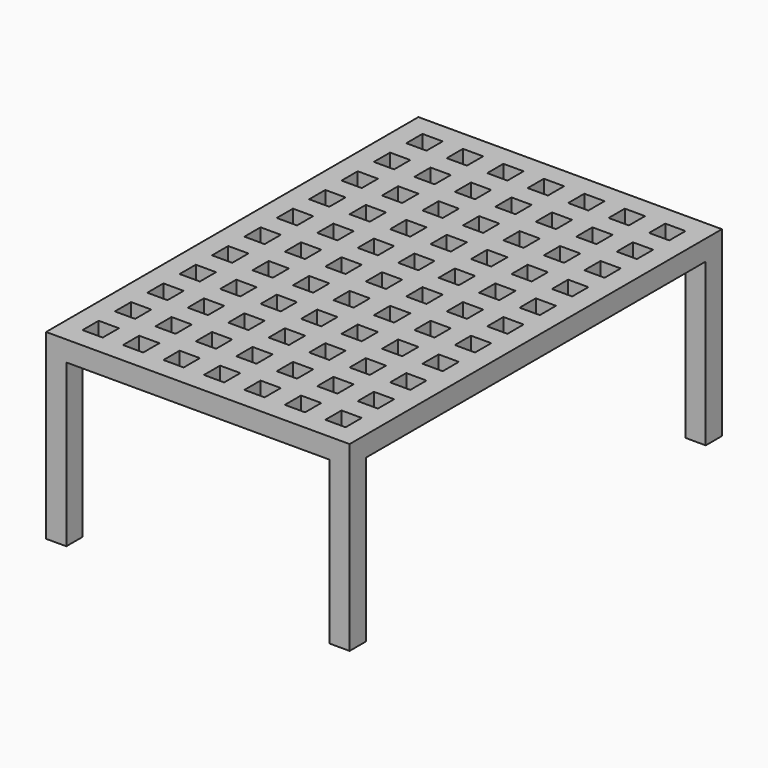
from build123d import *

# Parameters (mm, degrees)
F0_W     = 95.25
F0_H     = 146.05
F1_DEPTH = 6.35
F2_W     = 6.35
F2_H     = 6.35
F3_DEPTH = 25.4
F4_W     = 6.35
F4_H     = 6.35
F5_DEPTH = 57.15


with BuildPart() as f1:
    # F0 (on Top) → F1 (new body)
    with BuildSketch(Plane.XY):
        with Locations((-120.95061, -25.485893)):
            Rectangle(F0_W, F0_H)
    extrude(amount=F1_DEPTH)

    # F2 (on face) → F3 (cut)
    with BuildSketch(Plane.XY.offset(6.35)):
        with Locations((-159.05061, 38.014107)):
            Rectangle(F2_W, F2_H)
        with Locations((-146.35061, 38.014107)):
            Rectangle(F2_W, F2_H)
        with Locations((-133.65061, 38.014107)):
            Rectangle(F2_W, F2_H)
        with Locations((-120.95061, 38.014107)):
            Rectangle(F2_W, F2_H)
        with Locations((-108.25061, 38.014107)):
            Rectangle(F2_W, F2_H)
        with Locations((-95.55061, 38.014107)):
            Rectangle(F2_W, F2_H)
        with Locations((-82.85061, 38.014107)):
            Rectangle(F2_W, F2_H)
        with Locations((-120.95061, 25.314107)):
            Rectangle(F2_W, F2_H)
        with Locations((-159.05061, 25.314107)):
            Rectangle(F2_W, F2_H)
        with Locations((-146.35061, 25.314107)):
            Rectangle(F2_W, F2_H)
        with Locations((-133.65061, 25.314107)):
            Rectangle(F2_W, F2_H)
        with Locations((-108.25061, 25.314107)):
            Rectangle(F2_W, F2_H)
        with Locations((-95.55061, 25.314107)):
            Rectangle(F2_W, F2_H)
        with Locations((-82.85061, 25.314107)):
            Rectangle(F2_W, F2_H)
        with Locations((-82.85061, 12.614107)):
            Rectangle(F2_W, F2_H)
        with Locations((-95.55061, 12.614107)):
            Rectangle(F2_W, F2_H)
        with Locations((-108.25061, 12.614107)):
            Rectangle(F2_W, F2_H)
        with Locations((-120.95061, 12.614107)):
            Rectangle(F2_W, F2_H)
        with Locations((-133.65061, 12.614107)):
            Rectangle(F2_W, F2_H)
        with Locations((-146.35061, 12.614107)):
            Rectangle(F2_W, F2_H)
        with Locations((-159.05061, 12.614107)):
            Rectangle(F2_W, F2_H)
        with Locations((-159.05061, -0.085893)):
            Rectangle(F2_W, F2_H)
        with Locations((-146.35061, -0.085893)):
            Rectangle(F2_W, F2_H)
        with Locations((-133.65061, -0.085893)):
            Rectangle(F2_W, F2_H)
        with Locations((-120.95061, -0.085893)):
            Rectangle(F2_W, F2_H)
        with Locations((-108.25061, -0.085893)):
            Rectangle(F2_W, F2_H)
        with Locations((-95.55061, -0.085893)):
            Rectangle(F2_W, F2_H)
        with Locations((-82.85061, -0.085893)):
            Rectangle(F2_W, F2_H)
        with Locations((-82.85061, -12.785893)):
            Rectangle(F2_W, F2_H)
        with Locations((-95.55061, -12.785893)):
            Rectangle(F2_W, F2_H)
        with Locations((-108.25061, -12.785893)):
            Rectangle(F2_W, F2_H)
        with Locations((-120.95061, -12.785893)):
            Rectangle(F2_W, F2_H)
        with Locations((-133.65061, -12.785893)):
            Rectangle(F2_W, F2_H)
        with Locations((-146.35061, -12.785893)):
            Rectangle(F2_W, F2_H)
        with Locations((-159.05061, -12.785893)):
            Rectangle(F2_W, F2_H)
        with Locations((-159.05061, -25.485893)):
            Rectangle(F2_W, F2_H)
        with Locations((-146.35061, -25.485893)):
            Rectangle(F2_W, F2_H)
        with Locations((-146.35061, -38.185893)):
            Rectangle(F2_W, F2_H)
        with Locations((-159.05061, -38.185893)):
            Rectangle(F2_W, F2_H)
        with Locations((-159.05061, -50.885893)):
            Rectangle(F2_W, F2_H)
        with Locations((-133.65061, -50.885893)):
            Rectangle(F2_W, F2_H)
        with Locations((-133.65061, -38.185893)):
            Rectangle(F2_W, F2_H)
        with Locations((-133.65061, -25.485893)):
            Rectangle(F2_W, F2_H)
        with Locations((-120.95061, -25.485893)):
            Rectangle(F2_W, F2_H)
        with Locations((-120.95061, -38.185893)):
            Rectangle(F2_W, F2_H)
        with Locations((-120.95061, -50.885893)):
            Rectangle(F2_W, F2_H)
        with Locations((-108.25061, -50.885893)):
            Rectangle(F2_W, F2_H)
        with Locations((-95.55061, -50.885893)):
            Rectangle(F2_W, F2_H)
        with Locations((-95.55061, -38.185893)):
            Rectangle(F2_W, F2_H)
        with Locations((-82.85061, -38.185893)):
            Rectangle(F2_W, F2_H)
        with Locations((-82.85061, -25.485893)):
            Rectangle(F2_W, F2_H)
        with Locations((-95.55061, -25.485893)):
            Rectangle(F2_W, F2_H)
        with Locations((-108.25061, -25.485893)):
            Rectangle(F2_W, F2_H)
        with Locations((-108.25061, -38.185893)):
            Rectangle(F2_W, F2_H)
        with Locations((-82.85061, -50.885893)):
            Rectangle(F2_W, F2_H)
        with Locations((-82.85061, -63.585893)):
            Rectangle(F2_W, F2_H)
        with Locations((-95.55061, -63.585893)):
            Rectangle(F2_W, F2_H)
        with Locations((-108.25061, -63.585893)):
            Rectangle(F2_W, F2_H)
        with Locations((-120.95061, -63.585893)):
            Rectangle(F2_W, F2_H)
        with Locations((-133.65061, -63.585893)):
            Rectangle(F2_W, F2_H)
        with Locations((-146.35061, -63.585893)):
            Rectangle(F2_W, F2_H)
        with Locations((-159.05061, -76.285893)):
            Rectangle(F2_W, F2_H)
        with Locations((-146.35061, -76.285893)):
            Rectangle(F2_W, F2_H)
        with Locations((-133.65061, -76.285893)):
            Rectangle(F2_W, F2_H)
        with Locations((-120.95061, -76.285893)):
            Rectangle(F2_W, F2_H)
        with Locations((-108.25061, -76.285893)):
            Rectangle(F2_W, F2_H)
        with Locations((-95.55061, -76.285893)):
            Rectangle(F2_W, F2_H)
        with Locations((-82.85061, -76.285893)):
            Rectangle(F2_W, F2_H)
        with Locations((-82.85061, -88.985893)):
            Rectangle(F2_W, F2_H)
        with Locations((-95.55061, -88.985893)):
            Rectangle(F2_W, F2_H)
        with Locations((-108.25061, -88.985893)):
            Rectangle(F2_W, F2_H)
        with Locations((-120.95061, -88.985893)):
            Rectangle(F2_W, F2_H)
        with Locations((-133.65061, -88.985893)):
            Rectangle(F2_W, F2_H)
        with Locations((-146.35061, -88.985893)):
            Rectangle(F2_W, F2_H)
        with Locations((-159.05061, -88.985893)):
            Rectangle(F2_W, F2_H)
        with Locations((-146.35061, -50.885893)):
            Rectangle(F2_W, F2_H)
        with Locations((-159.05061, -63.585893)):
            Rectangle(F2_W, F2_H)
    extrude(amount=-F3_DEPTH, mode=Mode.SUBTRACT)

    # F4 (on face) → F5 (join)
    with BuildSketch(Plane.XY.offset(6.35)):
        with Locations((-76.50061, 44.364107)):
            Rectangle(F4_W, F4_H)
        with Locations((-76.50061, -95.335893)):
            Rectangle(F4_W, F4_H)
        with Locations((-165.40061, 44.364107)):
            Rectangle(F4_W, F4_H)
        with Locations((-165.40061, -95.335893)):
            Rectangle(F4_W, F4_H)
    extrude(amount=-F5_DEPTH)


solid = f1.part
